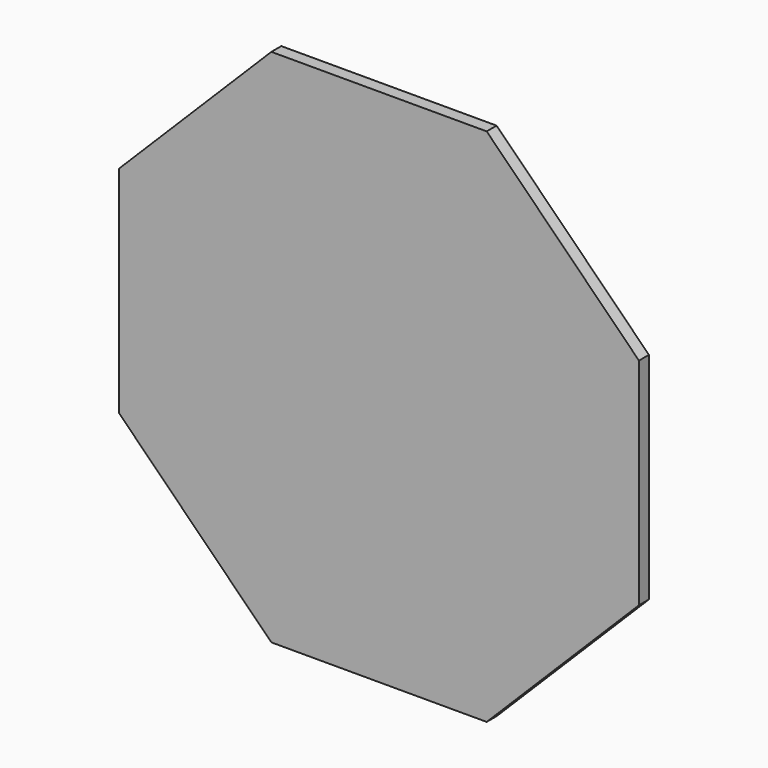
from build123d import *

# Parameters (mm, degrees)
F1_DEPTH = 3


with BuildPart() as f1:
    # F0 (on Front) → F1 (new body)
    with BuildSketch(Plane.XZ):
        Polygon((0, 0), (62.60475, -25.931737), (62.60475, 25.931737), align=None)
        Polygon((25.931737, -62.60475), (62.60475, -25.931737), (0, 0), align=None)
        Polygon((-25.931737, -62.60475), (25.931737, -62.60475), (0, 0), align=None)
        Polygon((0, 0), (62.60475, 25.931737), (25.931737, 62.60475), align=None)
        Polygon((-62.60475, 25.931737), (0, 0), (-25.931737, 62.60475), align=None)
        Polygon((-25.931737, 62.60475), (0, 0), (25.931737, 62.60475), align=None)
        Polygon((-62.60475, -25.931737), (0, 0), (-62.60475, 25.931737), align=None)
        Polygon((-25.931737, -62.60475), (0, 0), (-62.60475, -25.931737), align=None)
    extrude(amount=F1_DEPTH)


solid = f1.part
